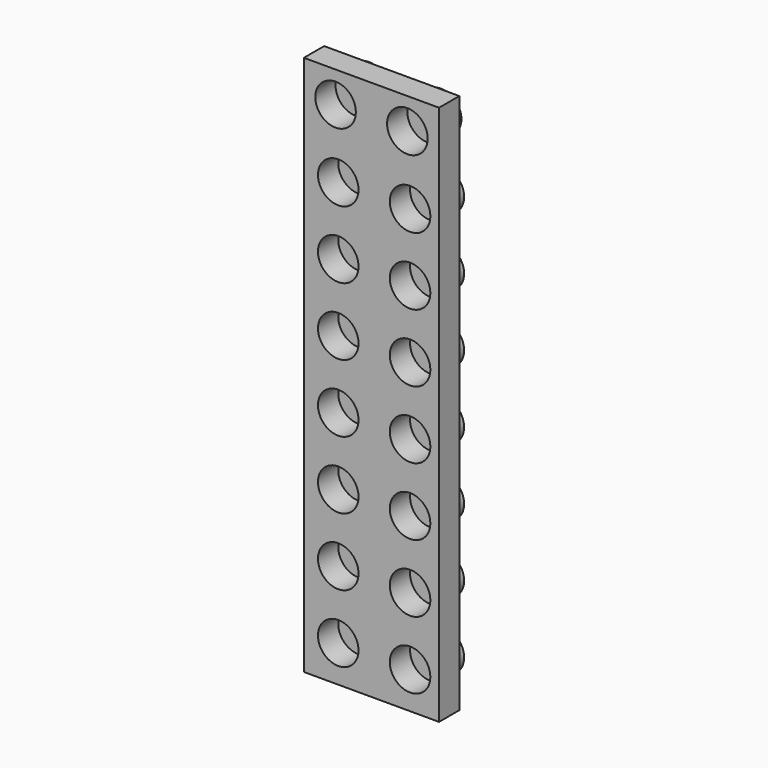
from build123d import *

# Parameters (mm, degrees)
F0_W     = 16
F0_H     = 64
F0_R     = 2.4
F1_DEPTH = 3
F2_DEPTH = 2


with BuildPart() as f1:
    # F0 (on Front) → F1 (new body)
    with BuildSketch(Plane.XZ):
        Rectangle(F0_W, F0_H)
        with Locations((-3.930483, -27.653744)):
            Circle(F0_R, mode=Mode.SUBTRACT)
        with Locations((-3.930483, -19.653744)):
            Circle(F0_R, mode=Mode.SUBTRACT)
        with Locations((-3.930483, -11.653744)):
            Circle(F0_R, mode=Mode.SUBTRACT)
        with Locations((-3.930483, -3.653744)):
            Circle(F0_R, mode=Mode.SUBTRACT)
        with Locations((4.569517, -27.653744)):
            Circle(F0_R, mode=Mode.SUBTRACT)
        with Locations((4.569517, -19.653744)):
            Circle(F0_R, mode=Mode.SUBTRACT)
        with Locations((4.569517, -11.653744)):
            Circle(F0_R, mode=Mode.SUBTRACT)
        with Locations((4.569517, -3.653744)):
            Circle(F0_R, mode=Mode.SUBTRACT)
        with Locations((-3.930483, 4.346256)):
            Circle(F0_R, mode=Mode.SUBTRACT)
        with Locations((-3.930483, 12.346256)):
            Circle(F0_R, mode=Mode.SUBTRACT)
        with Locations((-4.249863, 28.339878)):
            Circle(F0_R, mode=Mode.SUBTRACT)
        with Locations((-3.930483, 20.346256)):
            Circle(F0_R, mode=Mode.SUBTRACT)
        with Locations((4.569517, 4.346256)):
            Circle(F0_R, mode=Mode.SUBTRACT)
        with Locations((4.569517, 12.346256)):
            Circle(F0_R, mode=Mode.SUBTRACT)
        with Locations((4.569517, 20.346256)):
            Circle(F0_R, mode=Mode.SUBTRACT)
        with Locations((4.250137, 28.339878)):
            Circle(F0_R, mode=Mode.SUBTRACT)
    extrude(amount=F1_DEPTH)

    # F0 (on Front) → F2 (join)
    with BuildSketch(Plane.XZ):
        with Locations((-4.249863, 28.339878)):
            Circle(F0_R)
        with Locations((-3.930483, 20.346256)):
            Circle(F0_R)
        with Locations((-3.930483, 12.346256)):
            Circle(F0_R)
        with Locations((-3.930483, 4.346256)):
            Circle(F0_R)
        with Locations((-3.930483, -3.653744)):
            Circle(F0_R)
        with Locations((-3.930483, -11.653744)):
            Circle(F0_R)
        with Locations((-3.930483, -19.653744)):
            Circle(F0_R)
        with Locations((-3.930483, -27.653744)):
            Circle(F0_R)
        with Locations((4.250137, 28.339878)):
            Circle(F0_R)
        with Locations((4.569517, 20.346256)):
            Circle(F0_R)
        with Locations((4.569517, 4.346256)):
            Circle(F0_R)
        with Locations((4.569517, 12.346256)):
            Circle(F0_R)
        with Locations((4.569517, -3.653744)):
            Circle(F0_R)
        with Locations((4.569517, -11.653744)):
            Circle(F0_R)
        with Locations((4.569517, -19.653744)):
            Circle(F0_R)
        with Locations((4.569517, -27.653744)):
            Circle(F0_R)
    extrude(amount=-F2_DEPTH)


solid = f1.part
